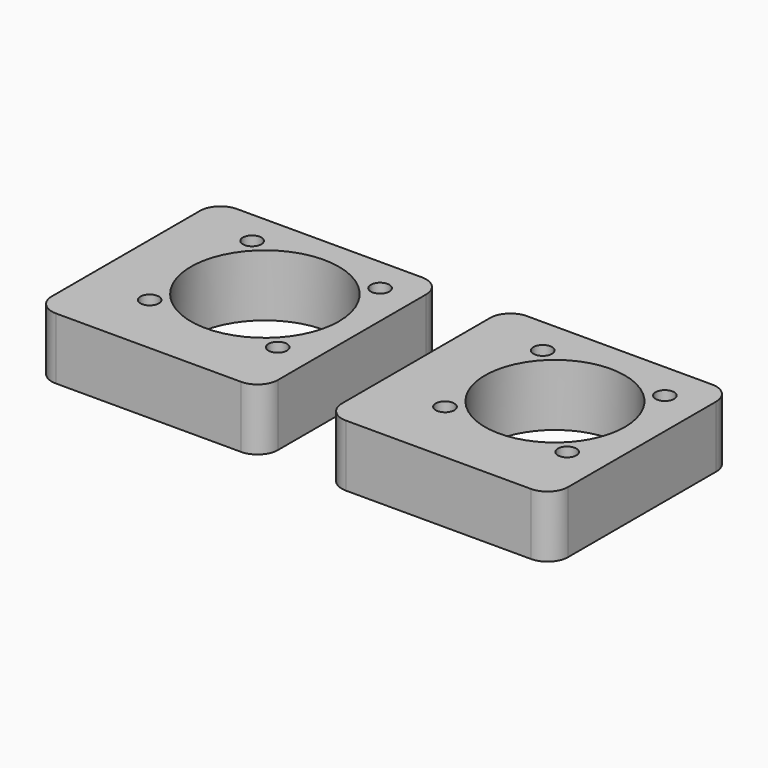
from build123d import *

# Parameters (mm, degrees)
F0_W     = 55
F0_H     = 55
F0_R     = 2.25
F0_R_2   = 18
F1_W     = 55
F1_H     = 55
F1_R     = 2.25
F1_R_2   = 17
F2_DEPTH = 15
F3_R     = 5


with BuildPart() as f2:
    # F0 (on Top) + F1 (on Top) → F2 (new body)
    with BuildSketch(Plane.XY):
        Rectangle(F0_W, F0_H)
        with Locations((-12.056349, -12.056349)):
            Circle(F0_R, mode=Mode.SUBTRACT)
        with Locations((19.056349, -12.056349)):
            Circle(F0_R, mode=Mode.SUBTRACT)
        with Locations((-12.056349, 19.056349)):
            Circle(F0_R, mode=Mode.SUBTRACT)
        with Locations((3.5, 3.5)):
            Circle(F0_R_2, mode=Mode.SUBTRACT)
        with Locations((19.056349, 19.056349)):
            Circle(F0_R, mode=Mode.SUBTRACT)
    with BuildSketch(Plane.XY):
        with Locations((70.513077, 0)):
            Rectangle(F1_W, F1_H)
        with Locations((59.163834, -11.349242)):
            Circle(F1_R, mode=Mode.SUBTRACT)
        with Locations((88.862319, -11.349242)):
            Circle(F1_R, mode=Mode.SUBTRACT)
        with Locations((59.163834, 18.349242)):
            Circle(F1_R, mode=Mode.SUBTRACT)
        with Locations((74.013077, 3.5)):
            Circle(F1_R_2, mode=Mode.SUBTRACT)
        with Locations((88.862319, 18.349242)):
            Circle(F1_R, mode=Mode.SUBTRACT)
    extrude(amount=F2_DEPTH)

    # F3
    f3_edges = [f2.edges().sort_by_distance(p)[0] for p in [
        (-27.5, -27.5, 7.5),
        (27.5, -27.5, 7.5),
        (27.5, 27.5, 7.5),
        (-27.5, 27.5, 7.5),
        (43.013077, 27.5, 7.5),
        (98.013077, 27.5, 7.5),
        (43.013077, -27.5, 7.5),
        (98.013077, -27.5, 7.5),
    ]]
    fillet(f3_edges, radius=F3_R)


solid = f2.part
